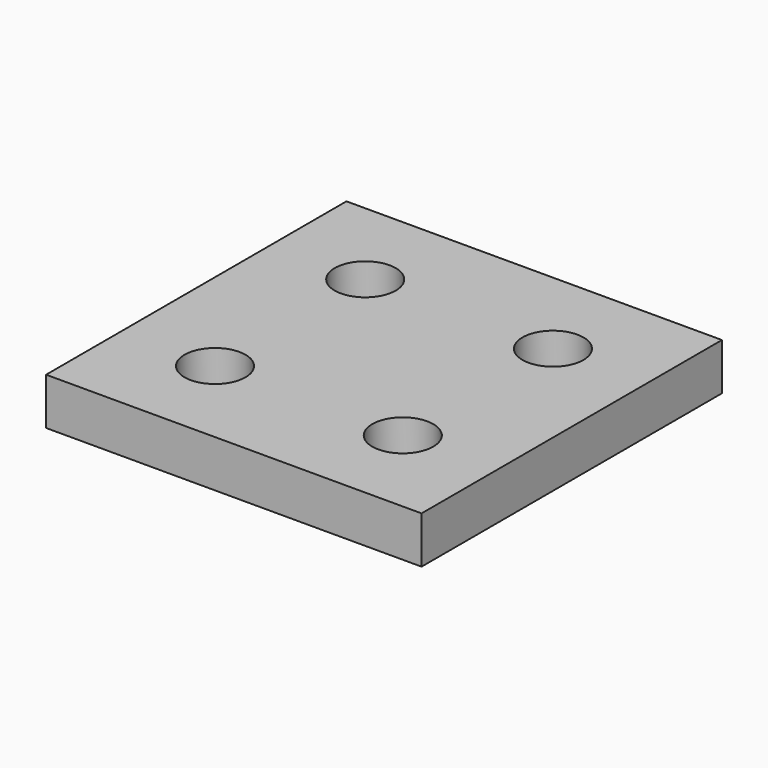
from build123d import *

# Parameters (mm, degrees)
SKETCH_W     = 40
SKETCH_H     = 40
PAD_DEPTH    = 5
SKETCH001_R  = 3.25
POCKET_DEPTH = 5


with BuildPart() as part:
    # Sketch → Pad (new body)
    with BuildSketch(Plane.XY):
        Rectangle(SKETCH_W, SKETCH_H)
    extrude(amount=PAD_DEPTH)

    # Sketch001 (on DatumPlane) → Pocket (cut)
    with BuildSketch(Plane.XY.offset(5)):
        with Locations((10, 10)):
            Circle(SKETCH001_R)
        with Locations((10, -10)):
            Circle(SKETCH001_R)
        with Locations((-10, -10)):
            Circle(SKETCH001_R)
        with Locations((-10, 10)):
            Circle(SKETCH001_R)
    extrude(amount=-POCKET_DEPTH, mode=Mode.SUBTRACT)


solid = part.part
